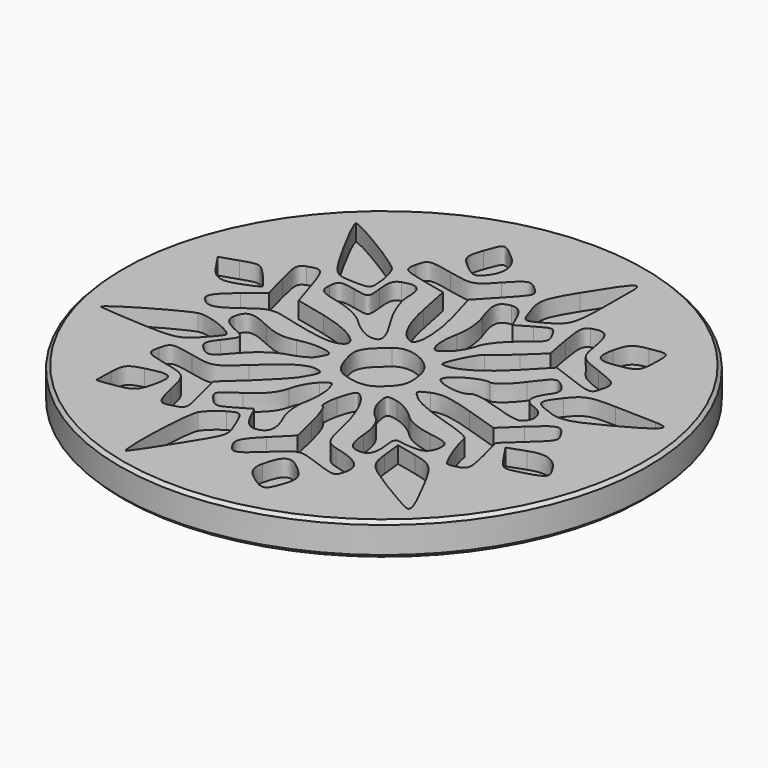
from build123d import *

# Parameters (mm, degrees)
POCKET_DEPTH = 1.25


with BuildPart() as part:
    # Sketch (on DatumPlane) → Revolution (revolve)
    with BuildSketch(Plane.YZ):
        Polygon((0, 0), (0, -2.5), (19.75, -2.5), (20, -2.25), (20, -0.25), (19.75, 0), align=None)
    revolve(axis=Axis((0, 0, 0), (0, 0, 1)))

    # Sketch005 → Pocket (cut)
    with BuildSketch(Plane.XY):
        with BuildLine():
            add(Edge.make_bspline(
                [(-13.005796, 2.866213), (-14.41352, 2.34128), (-14.858302, 2.479004), (-15.675618, 3.690302)],
                knots=[0, 0, 0, 0, 1, 1, 1, 1], degree=3))
            add(Edge.make_bspline(
                [(-15.675618, 3.690302), (-16.358596, 4.704044)],
                knots=[0, 0, 10.827876, 10.827876], degree=1))
            add(Edge.make_bspline(
                [(-16.358596, 4.704044), (-15.049084, 5.142053)],
                knots=[0, 0, 12.231697, 12.231697], degree=1))
            add(Edge.make_bspline(
                [(-15.049084, 5.142053), (-13.762151, 5.573289), (-13.723769, 5.562), (-12.812756, 4.541484)],
                knots=[0, 0, 0, 0, 1, 1, 1, 1], degree=3))
            add(Edge.make_bspline(
                [(-12.812756, 4.541484), (-12.302498, 3.970267), (-11.897227, 3.44872), (-11.911902, 3.383244)],
                knots=[0, 0, 0, 0, 1, 1, 1, 1], degree=3))
            add(Edge.make_bspline(
                [(-11.911902, 3.383244), (-11.927707, 3.317769), (-12.419902, 3.085218), (-13.005796, 2.866213)],
                knots=[0, 0, 0, 0, 1, 1, 1, 1], degree=3))
        make_face()
        with BuildLine():
            add(Edge.make_bspline(
                [(15.175787, -5.580133), (13.715004, -5.985404), (13.712747, -5.984276), (12.95752, -4.865547)],
                knots=[0, 0, 0, 0, 1, 1, 1, 1], degree=3))
            add(Edge.make_bspline(
                [(12.95752, -4.865547), (12.202293, -3.743431)],
                knots=[0, 0, 11.98164, 11.98164], degree=1))
            add(Edge.make_bspline(
                [(12.202293, -3.743431), (13.477938, -3.290747)],
                knots=[0, 0, 11.990417, 11.990417], degree=1))
            add(Edge.make_bspline(
                [(13.477938, -3.290747), (14.807769, -2.818871), (15.626213, -3.181244), (16.319351, -4.548329)],
                knots=[0, 0, 0, 0, 1, 1, 1, 1], degree=3))
            add(Edge.make_bspline(
                [(16.319351, -4.548329), (16.575609, -5.051813), (16.352089, -5.253884), (15.175787, -5.580133)],
                knots=[0, 0, 0, 0, 1, 1, 1, 1], degree=3))
        make_face()
        with BuildLine():
            add(Edge.make_bspline(
                [(15.299964, 2.323218), (13.236356, 1.224809), (12.518382, 1.034027), (11.610756, 1.342213)],
                knots=[0, 0, 0, 0, 1, 1, 1, 1], degree=3))
            add(Edge.make_bspline(
                [(11.610756, 1.342213), (9.979511, 1.895369), (9.924196, 2.054542), (10.928907, 3.3268)],
                knots=[0, 0, 0, 0, 1, 1, 1, 1], degree=3))
            add(Edge.make_bspline(
                [(10.928907, 3.3268), (11.731547, 4.343929), (12.092791, 4.469236), (14.032222, 4.406018)],
                knots=[0, 0, 0, 0, 1, 1, 1, 1], degree=3))
            add(Edge.make_bspline(
                [(14.032222, 4.406018), (15.239004, 4.365378), (16.626409, 4.328124), (17.115218, 4.321351)],
                knots=[0, 0, 0, 0, 1, 1, 1, 1], degree=3))
            add(Edge.make_bspline(
                [(17.115218, 4.321351), (18.521813, 4.303289), (18.053324, 3.787387), (15.299964, 2.323218)],
                knots=[0, 0, 0, 0, 1, 1, 1, 1], degree=3))
        make_face()
        with BuildLine():
            add(Edge.make_bspline(
                [(12.484516, -13.463164), (12.305022, -13.422524), (11.083564, -12.732773), (9.769538, -11.930133)],
                knots=[0, 0, 0, 0, 1, 1, 1, 1], degree=3))
            add(Edge.make_bspline(
                [(9.769538, -11.930133), (7.59304, -10.599173), (7.367262, -10.337271), (7.215991, -8.973573)],
                knots=[0, 0, 0, 0, 1, 1, 1, 1], degree=3))
            add(Edge.make_bspline(
                [(7.215991, -8.973573), (7.051173, -7.476667)],
                knots=[0, 0, 13.340135, 13.340135], degree=1))
            add(Edge.make_bspline(
                [(7.051173, -7.476667), (8.631618, -7.835653)],
                knots=[0, 0, 14.356615, 14.356615], degree=1))
            add(Edge.make_bspline(
                [(8.631618, -7.835653), (10.052889, -8.158516), (10.327209, -8.412516), (11.336436, -10.331627)],
                knots=[0, 0, 0, 0, 1, 1, 1, 1], degree=3))
            add(Edge.make_bspline(
                [(11.336436, -10.331627), (12.666267, -12.862596), (12.923653, -13.563636), (12.484516, -13.463164)],
                knots=[0, 0, 0, 0, 1, 1, 1, 1], degree=3))
        make_face()
        with BuildLine():
            add(Edge.make_bspline(
                [(12.649333, -2.471173), (11.391751, -3.631671)],
                knots=[0, 0, 15.15843, 15.15843], degree=1))
            add(Edge.make_bspline(
                [(11.391751, -3.631671), (11.843307, -5.411929)],
                knots=[0, 0, 16.269385, 16.269385], degree=1))
            add(Edge.make_bspline(
                [(11.843307, -5.411929), (12.207938, -6.851262), (12.184231, -7.22944), (11.716871, -7.395387)],
                knots=[0, 0, 0, 0, 1, 1, 1, 1], degree=3))
            add(Edge.make_bspline(
                [(11.716871, -7.395387), (11.399653, -7.508276), (11.010187, -7.573751), (10.851013, -7.541013)],
                knots=[0, 0, 0, 0, 1, 1, 1, 1], degree=3))
            add(Edge.make_bspline(
                [(10.851013, -7.541013), (10.587982, -7.486827), (9.674711, -5.178249), (9.590044, -4.353031)],
                knots=[0, 0, 0, 0, 1, 1, 1, 1], degree=3))
            add(Edge.make_bspline(
                [(9.590044, -4.353031), (9.570853, -4.165636), (8.525502, -3.719724), (7.269049, -3.360738)],
                knots=[0, 0, 0, 0, 1, 1, 1, 1], degree=3))
            add(Edge.make_bspline(
                [(7.269049, -3.360738), (6.011467, -3.00288), (4.647769, -2.419244), (4.236853, -2.062516)],
                knots=[0, 0, 0, 0, 1, 1, 1, 1], degree=3))
            add(Edge.make_bspline(
                [(4.236853, -2.062516), (3.506462, -1.429209), (3.50872, -1.406631), (4.34184, -1.030711)],
                knots=[0, 0, 0, 0, 1, 1, 1, 1], degree=3))
            add(Edge.make_bspline(
                [(4.34184, -1.030711), (4.98192, -0.742844), (5.803751, -0.843316), (7.637067, -1.433724)],
                knots=[0, 0, 0, 0, 1, 1, 1, 1], degree=3))
            add(Edge.make_bspline(
                [(7.637067, -1.433724), (10.081111, -2.219431)],
                knots=[0, 0, 22.741242, 22.741242], degree=1))
            add(Edge.make_bspline(
                [(10.081111, -2.219431), (11.418844, -0.941529)],
                knots=[0, 0, 16.38795, 16.38795], degree=1))
            add(Edge.make_bspline(
                [(11.418844, -0.941529), (12.854791, 0.432329), (13.155076, 0.509093), (13.696942, -0.35112)],
                knots=[0, 0, 0, 0, 1, 1, 1, 1], degree=3))
            add(Edge.make_bspline(
                [(13.696942, -0.35112), (14.149627, -1.069093), (14.132693, -1.10296), (12.649333, -2.471173)],
                knots=[0, 0, 0, 0, 1, 1, 1, 1], degree=3))
        make_face()
        with BuildLine():
            add(Edge.make_bspline(
                [(10.706516, -0.51368), (10.540569, -0.618667), (9.54376, -0.400791), (8.493893, -0.029387)],
                knots=[0, 0, 0, 0, 1, 1, 1, 1], degree=3))
            add(Edge.make_bspline(
                [(8.493893, -0.029387), (7.249858, 0.41088), (6.459636, 0.520382), (6.227084, 0.283316)],
                knots=[0, 0, 0, 0, 1, 1, 1, 1], degree=3))
            add(Edge.make_bspline(
                [(6.227084, 0.283316), (5.78456, -0.165982), (3.622738, 0.283316), (3.740142, 0.800347)],
                knots=[0, 0, 0, 0, 1, 1, 1, 1], degree=3))
            add(Edge.make_bspline(
                [(3.740142, 0.800347), (3.872222, 1.383982), (5.607324, 2.357084), (6.253049, 2.210329)],
                knots=[0, 0, 0, 0, 1, 1, 1, 1], degree=3))
            add(Edge.make_bspline(
                [(6.253049, 2.210329), (6.580427, 2.135822), (7.317591, 2.748809), (7.953156, 3.623698)],
                knots=[0, 0, 0, 0, 1, 1, 1, 1], degree=3))
            add(Edge.make_bspline(
                [(7.953156, 3.623698), (8.972542, 5.026907), (9.139618, 5.113831), (9.768409, 4.567449)],
                knots=[0, 0, 0, 0, 1, 1, 1, 1], degree=3))
            add(Edge.make_bspline(
                [(9.768409, 4.567449), (10.239156, 4.15992), (10.331724, 3.782871), (10.059662, 3.394533)],
                knots=[0, 0, 0, 0, 1, 1, 1, 1], degree=3))
            add(Edge.make_bspline(
                [(10.059662, 3.394533), (9.229929, 2.217102), (9.28976, 1.719262), (10.304631, 1.362533)],
                knots=[0, 0, 0, 0, 1, 1, 1, 1], degree=3))
            add(Edge.make_bspline(
                [(10.304631, 1.362533), (11.266444, 1.024996), (11.491093, -0.020356), (10.706516, -0.51368)],
                knots=[0, 0, 0, 0, 1, 1, 1, 1], degree=3))
        make_face()
        with BuildLine():
            add(Edge.make_bspline(
                [(8.457769, -7.151547), (8.089751, -7.204604), (7.467733, -7.175253), (7.076009, -7.086071)],
                knots=[0, 0, 0, 0, 1, 1, 1, 1], degree=3))
            add(Edge.make_bspline(
                [(7.076009, -7.086071), (6.464151, -6.947218), (6.384, -7.075911), (6.511564, -7.98128)],
                knots=[0, 0, 0, 0, 1, 1, 1, 1], degree=3))
            add(Edge.make_bspline(
                [(6.511564, -7.98128), (6.686542, -9.2208), (6.338844, -9.691547), (5.406382, -9.479316)],
                knots=[0, 0, 0, 0, 1, 1, 1, 1], degree=3))
            add(Edge.make_bspline(
                [(5.406382, -9.479316), (4.948053, -9.375458), (4.699698, -8.811013), (4.624062, -7.700187)],
                knots=[0, 0, 0, 0, 1, 1, 1, 1], degree=3))
            add(Edge.make_bspline(
                [(4.624062, -7.700187), (4.5552, -6.6808), (4.218791, -5.84768), (3.724338, -5.47176)],
                knots=[0, 0, 0, 0, 1, 1, 1, 1], degree=3))
            add(Edge.make_bspline(
                [(3.724338, -5.47176), (3.290844, -5.140996), (2.843804, -4.424151), (2.729787, -3.877769)],
                knots=[0, 0, 0, 0, 1, 1, 1, 1], degree=3))
            add(Edge.make_bspline(
                [(2.729787, -3.877769), (2.542391, -2.973529), (2.610124, -2.903538), (3.471467, -3.098836)],
                knots=[0, 0, 0, 0, 1, 1, 1, 1], degree=3))
            add(Edge.make_bspline(
                [(3.471467, -3.098836), (3.991884, -3.217369), (4.76856, -3.676827), (5.196409, -4.12048)],
                knots=[0, 0, 0, 0, 1, 1, 1, 1], degree=3))
            add(Edge.make_bspline(
                [(5.196409, -4.12048), (5.69312, -4.635253), (6.568009, -5.013431), (7.617876, -5.165831)],
                knots=[0, 0, 0, 0, 1, 1, 1, 1], degree=3))
            add(Edge.make_bspline(
                [(7.617876, -5.165831), (9.051564, -5.373547), (9.253636, -5.510142), (9.194933, -6.230373)],
                knots=[0, 0, 0, 0, 1, 1, 1, 1], degree=3))
            add(Edge.make_bspline(
                [(9.194933, -6.230373), (9.155422, -6.716924), (8.85288, -7.095102), (8.457769, -7.151547)],
                knots=[0, 0, 0, 0, 1, 1, 1, 1], degree=3))
        make_face()
        with BuildLine():
            add(Edge.make_bspline(
                [(9.981769, 5.48072), (8.183449, 6.147893)],
                knots=[0, 0, 16.990968, 16.990968], degree=1))
            add(Edge.make_bspline(
                [(8.183449, 6.147893), (6.464151, 4.376667)],
                knots=[0, 0, 21.866161, 21.866161], degree=1))
            add(Edge.make_bspline(
                [(6.464151, 4.376667), (5.016916, 2.886533), (3.501947, 2.042124), (2.630444, 2.240809)],
                knots=[0, 0, 0, 0, 1, 1, 1, 1], degree=3))
            add(Edge.make_bspline(
                [(2.630444, 2.240809), (2.356124, 2.302898), (3.443244, 4.582124), (3.82368, 4.742427)],
                knots=[0, 0, 0, 0, 1, 1, 1, 1], degree=3))
            add(Edge.make_bspline(
                [(3.82368, 4.742427), (3.993013, 4.812418), (4.71776, 5.425404), (5.436862, 6.102738)],
                knots=[0, 0, 0, 0, 1, 1, 1, 1], degree=3))
            add(Edge.make_bspline(
                [(5.436862, 6.102738), (6.742987, 7.335484)],
                knots=[0, 0, 15.909472, 15.909472], degree=1))
            add(Edge.make_bspline(
                [(6.742987, 7.335484), (6.396418, 9.2196)],
                knots=[0, 0, 16.970003, 16.970003], degree=1))
            add(Edge.make_bspline(
                [(6.396418, 9.2196), (6.122098, 10.714249), (6.164996, 11.144356), (6.605262, 11.300142)],
                knots=[0, 0, 0, 0, 1, 1, 1, 1], degree=3))
            add(Edge.make_bspline(
                [(6.605262, 11.300142), (7.639324, 11.66816), (7.98928, 11.324978), (8.236507, 9.700507)],
                knots=[0, 0, 0, 0, 1, 1, 1, 1], degree=3))
            add(Edge.make_bspline(
                [(8.236507, 9.700507), (8.467929, 8.176507), (8.595493, 8.036524), (10.345271, 7.387413)],
                knots=[0, 0, 0, 0, 1, 1, 1, 1], degree=3))
            add(Edge.make_bspline(
                [(10.345271, 7.387413), (12.0228, 6.765396), (12.187618, 6.602836), (11.994578, 5.75504)],
                knots=[0, 0, 0, 0, 1, 1, 1, 1], degree=3))
            add(Edge.make_bspline(
                [(11.994578, 5.75504), (11.787991, 4.845156), (11.720258, 4.836124), (9.981769, 5.48072)],
                knots=[0, 0, 0, 0, 1, 1, 1, 1], degree=3))
        make_face()
        with BuildLine():
            add(Edge.make_bspline(
                [(11.228062, 8.659671), (9.464738, 8.29504), (9.069627, 8.573876), (9.385716, 9.965796)],
                knots=[0, 0, 0, 0, 1, 1, 1, 1], degree=3))
            add(Edge.make_bspline(
                [(9.385716, 9.965796), (9.627298, 11.02808), (9.882427, 11.274178), (10.924391, 11.452542)],
                knots=[0, 0, 0, 0, 1, 1, 1, 1], degree=3))
            add(Edge.make_bspline(
                [(10.924391, 11.452542), (12.372756, 11.699769), (12.365982, 11.705413), (12.309538, 10.097876)],
                knots=[0, 0, 0, 0, 1, 1, 1, 1], degree=3))
            add(Edge.make_bspline(
                [(12.309538, 10.097876), (12.272284, 9.061556), (12.107467, 8.841422), (11.228062, 8.659671)],
                knots=[0, 0, 0, 0, 1, 1, 1, 1], degree=3))
        make_face()
        with BuildLine():
            add(Edge.make_bspline(
                [(4.76856, -12.273316), (2.981529, -11.610658), (2.971369, -11.611787), (1.597511, -12.925813)],
                knots=[0, 0, 0, 0, 1, 1, 1, 1], degree=3))
            add(Edge.make_bspline(
                [(1.597511, -12.925813), (0.090444, -14.365147), (-0.181618, -14.431751), (-0.665911, -13.47784)],
                knots=[0, 0, 0, 0, 1, 1, 1, 1], degree=3))
            add(Edge.make_bspline(
                [(-0.665911, -13.47784), (-0.922169, -12.973227), (-0.716711, -12.567956), (0.320738, -11.532764)],
                knots=[0, 0, 0, 0, 1, 1, 1, 1], degree=3))
            add(Edge.make_bspline(
                [(0.320738, -11.532764), (1.631378, -10.225511)],
                knots=[0, 0, 16.39782, 16.39782], degree=1))
            add(Edge.make_bspline(
                [(1.631378, -10.225511), (1.189982, -8.333493)],
                knots=[0, 0, 17.210046, 17.210046], degree=1))
            add(Edge.make_bspline(
                [(1.189982, -8.333493), (0.9484, -7.293787), (0.614249, -6.410996), (0.448302, -6.373742)],
                knots=[0, 0, 0, 0, 1, 1, 1, 1], degree=3))
            add(Edge.make_bspline(
                [(0.448302, -6.373742), (0.282356, -6.336489), (0.281227, -5.712213), (0.446044, -4.986338)],
                knots=[0, 0, 0, 0, 1, 1, 1, 1], degree=3))
            add(Edge.make_bspline(
                [(0.446044, -4.986338), (0.610862, -4.261591), (0.871636, -3.701662), (1.025164, -3.741173)],
                knots=[0, 0, 0, 0, 1, 1, 1, 1], degree=3))
            add(Edge.make_bspline(
                [(1.025164, -3.741173), (1.719431, -3.920667), (2.590933, -5.645609), (2.998462, -7.646)],
                knots=[0, 0, 0, 0, 1, 1, 1, 1], degree=3))
            add(Edge.make_bspline(
                [(2.998462, -7.646), (3.367609, -9.453351), (3.609191, -9.864267), (4.41296, -10.051662)],
                knots=[0, 0, 0, 0, 1, 1, 1, 1], degree=3))
            add(Edge.make_bspline(
                [(4.41296, -10.051662), (6.293689, -10.489671), (6.985698, -11.06992), (6.768951, -12.027218)],
                knots=[0, 0, 0, 0, 1, 1, 1, 1], degree=3))
            add(Edge.make_bspline(
                [(6.768951, -12.027218), (6.570267, -12.899849), (6.486729, -12.910009), (4.76856, -12.273316)],
                knots=[0, 0, 0, 0, 1, 1, 1, 1], degree=3))
        make_face()
        with BuildLine():
            add(Edge.make_bspline(
                [(4.845324, -15.59112), (4.409573, -16.906276), (4.191698, -16.950302), (2.91944, -15.980587)],
                knots=[0, 0, 0, 0, 1, 1, 1, 1], degree=3))
            add(Edge.make_bspline(
                [(2.91944, -15.980587), (2.316613, -15.522258), (2.12696, -15.033449), (2.286133, -14.3516)],
                knots=[0, 0, 0, 0, 1, 1, 1, 1], degree=3))
            add(Edge.make_bspline(
                [(2.286133, -14.3516), (2.66544, -12.724871), (3.139573, -12.5228), (4.252658, -13.512836)],
                knots=[0, 0, 0, 0, 1, 1, 1, 1], degree=3))
            add(Edge.make_bspline(
                [(4.252658, -13.512836), (5.08352, -14.253387), (5.178347, -14.584151), (4.845324, -15.59112)],
                knots=[0, 0, 0, 0, 1, 1, 1, 1], degree=3))
        make_face()
        with BuildLine():
            add(Edge.make_bspline(
                [(4.409573, 7.396444), (3.644187, 6.816196), (2.918311, 5.900667), (2.796391, 5.363316)],
                knots=[0, 0, 0, 0, 1, 1, 1, 1], degree=3))
            add(Edge.make_bspline(
                [(2.796391, 5.363316), (2.673342, 4.824836), (2.247751, 4.113636), (1.850382, 3.780613)],
                knots=[0, 0, 0, 0, 1, 1, 1, 1], degree=3))
            add(Edge.make_bspline(
                [(1.850382, 3.780613), (1.223849, 3.257938), (1.092898, 3.263582), (0.876151, 3.826898)],
                knots=[0, 0, 0, 0, 1, 1, 1, 1], degree=3))
            add(Edge.make_bspline(
                [(0.876151, 3.826898), (0.739556, 4.184756), (0.757618, 5.072062), (0.91792, 5.797938)],
                knots=[0, 0, 0, 0, 1, 1, 1, 1], degree=3))
            add(Edge.make_bspline(
                [(0.91792, 5.797938), (1.078222, 6.523813), (0.987911, 7.703502), (0.716978, 8.418089)],
                knots=[0, 0, 0, 0, 1, 1, 1, 1], degree=3))
            add(Edge.make_bspline(
                [(0.716978, 8.418089), (0.113022, 10.014338), (0.207849, 10.55056), (1.115476, 10.680382)],
                knots=[0, 0, 0, 0, 1, 1, 1, 1], degree=3))
            add(Edge.make_bspline(
                [(1.115476, 10.680382), (1.579449, 10.748116), (1.967787, 10.442187), (2.2692, 9.772756)],
                knots=[0, 0, 0, 0, 1, 1, 1, 1], degree=3))
            add(Edge.make_bspline(
                [(2.2692, 9.772756), (2.723013, 8.764658)],
                knots=[0, 0, 9.793125, 9.793125], degree=1))
            add(Edge.make_bspline(
                [(2.723013, 8.764658), (3.819164, 9.408124)],
                knots=[0, 0, 11.259401, 11.259401], degree=1))
            add(Edge.make_bspline(
                [(3.819164, 9.408124), (4.861129, 10.019982), (4.936764, 10.013209), (5.35784, 9.251209)],
                knots=[0, 0, 0, 0, 1, 1, 1, 1], degree=3))
            add(Edge.make_bspline(
                [(5.35784, 9.251209), (5.766498, 8.515173), (5.690862, 8.368418), (4.409573, 7.396444)],
                knots=[0, 0, 0, 0, 1, 1, 1, 1], degree=3))
        make_face()
        with BuildLine():
            add(Edge.make_bspline(
                [(1.607671, -2.181049), (1.056773, -2.683404), (0.444916, -2.808711), (-0.45368, -2.604382)],
                knots=[0, 0, 0, 0, 1, 1, 1, 1], degree=3))
            add(Edge.make_bspline(
                [(-0.45368, -2.604382), (-1.485484, -2.369573), (-1.819636, -2.052356), (-2.186524, -0.955076)],
                knots=[0, 0, 0, 0, 1, 1, 1, 1], degree=3))
            add(Edge.make_bspline(
                [(-2.186524, -0.955076), (-2.649369, 0.426684), (-2.518418, 0.761964), (-1.02264, 2.03648)],
                knots=[0, 0, 0, 0, 1, 1, 1, 1], degree=3))
            add(Edge.make_bspline(
                [(-1.02264, 2.03648), (-0.021316, 2.88992), (2.120187, 1.922462), (2.419342, 0.480871)],
                knots=[0, 0, 0, 0, 1, 1, 1, 1], degree=3))
            add(Edge.make_bspline(
                [(2.419342, 0.480871), (2.699307, -0.871538), (2.566098, -1.309547), (1.607671, -2.181049)],
                knots=[0, 0, 0, 0, 1, 1, 1, 1], degree=3))
        make_face()
        with BuildLine():
            add(Edge.make_bspline(
                [(4.074293, 10.210764), (3.085387, 9.630516), (2.869769, 9.623742), (2.664311, 10.16448)],
                knots=[0, 0, 0, 0, 1, 1, 1, 1], degree=3))
            add(Edge.make_bspline(
                [(2.664311, 10.16448), (1.919244, 12.119716), (1.948596, 12.331947), (3.266009, 14.494898)],
                knots=[0, 0, 0, 0, 1, 1, 1, 1], degree=3))
            add(Edge.make_bspline(
                [(3.266009, 14.494898), (5.045138, 17.417591), (5.515884, 17.860116), (5.518142, 16.614951)],
                knots=[0, 0, 0, 0, 1, 1, 1, 1], degree=3))
            add(Edge.make_bspline(
                [(5.518142, 16.614951), (5.528302, 11.084524), (5.523787, 11.061947), (4.074293, 10.210764)],
                knots=[0, 0, 0, 0, 1, 1, 1, 1], degree=3))
        make_face()
        with BuildLine():
            add(Edge.make_bspline(
                [(-0.810409, -11.117333), (-1.245031, -11.180551), (-1.669493, -10.845271), (-1.995742, -10.183742)],
                knots=[0, 0, 0, 0, 1, 1, 1, 1], degree=3))
            add(Edge.make_bspline(
                [(-1.995742, -10.183742), (-2.503742, -9.151938)],
                knots=[0, 0, 10.187718, 10.187718], degree=1))
            add(Edge.make_bspline(
                [(-2.503742, -9.151938), (-3.546836, -9.763796)],
                knots=[0, 0, 10.712329, 10.712329], degree=1))
            add(Edge.make_bspline(
                [(-3.546836, -9.763796), (-4.474782, -10.309049), (-4.657662, -10.298889), (-5.197271, -9.673484)],
                knots=[0, 0, 0, 0, 1, 1, 1, 1], degree=3))
            add(Edge.make_bspline(
                [(-5.197271, -9.673484), (-5.786551, -8.991636), (-5.758329, -8.938578), (-4.293031, -7.979022)],
                knots=[0, 0, 0, 0, 1, 1, 1, 1], degree=3))
            add(Edge.make_bspline(
                [(-4.293031, -7.979022), (-3.269129, -7.308462), (-2.697911, -6.623227), (-2.524062, -5.854453)],
                knots=[0, 0, 0, 0, 1, 1, 1, 1], degree=3))
            add(Edge.make_bspline(
                [(-2.524062, -5.854453), (-2.381822, -5.231307), (-1.961876, -4.45576), (-1.590471, -4.132898)],
                knots=[0, 0, 0, 0, 1, 1, 1, 1], degree=3))
            add(Edge.make_bspline(
                [(-1.590471, -4.132898), (-0.936844, -3.563938), (-0.907493, -3.572969), (-0.670427, -4.437698)],
                knots=[0, 0, 0, 0, 1, 1, 1, 1], degree=3))
            add(Edge.make_bspline(
                [(-0.670427, -4.437698), (-0.53496, -4.928764), (-0.548507, -5.893964), (-0.699778, -6.581458)],
                knots=[0, 0, 0, 0, 1, 1, 1, 1], degree=3))
            add(Edge.make_bspline(
                [(-0.699778, -6.581458), (-0.851049, -7.27008), (-0.739289, -8.331236), (-0.452551, -8.941964)],
                knots=[0, 0, 0, 0, 1, 1, 1, 1], degree=3))
            add(Edge.make_bspline(
                [(-0.452551, -8.941964), (0.190916, -10.305662), (0.078027, -10.989769), (-0.810409, -11.117333)],
                knots=[0, 0, 0, 0, 1, 1, 1, 1], degree=3))
        make_face()
        with BuildLine():
            add(Edge.make_bspline(
                [(-3.367342, -15.568542), (-4.191431, -16.884827), (-4.948916, -18.014844), (-5.051644, -18.079191)],
                knots=[0, 0, 0, 0, 1, 1, 1, 1], degree=3))
            add(Edge.make_bspline(
                [(-5.051644, -18.079191), (-5.414018, -18.307227), (-5.204044, -12.20784), (-4.828124, -11.565502)],
                knots=[0, 0, 0, 0, 1, 1, 1, 1], degree=3))
            add(Edge.make_bspline(
                [(-4.828124, -11.565502), (-4.617022, -11.206516), (-4.062738, -10.697387), (-3.596507, -10.435484)],
                knots=[0, 0, 0, 0, 1, 1, 1, 1], degree=3))
            add(Edge.make_bspline(
                [(-3.596507, -10.435484), (-2.793867, -9.983929), (-2.721618, -10.025698), (-2.209102, -11.255058)],
                knots=[0, 0, 0, 0, 1, 1, 1, 1], degree=3))
            add(Edge.make_bspline(
                [(-2.209102, -11.255058), (-1.56112, -12.806151), (-1.503547, -12.592791), (-3.367342, -15.568542)],
                knots=[0, 0, 0, 0, 1, 1, 1, 1], degree=3))
        make_face()
        with BuildLine():
            add(Edge.make_bspline(
                [(-0.650107, 3.382116), (-1.478711, 3.569511), (-2.179751, 4.865476), (-2.608729, 6.997947)],
                knots=[0, 0, 0, 0, 1, 1, 1, 1], degree=3))
            add(Edge.make_bspline(
                [(-2.608729, 6.997947), (-3.109956, 9.484889)],
                knots=[0, 0, 22.472973, 22.472973], degree=1))
            add(Edge.make_bspline(
                [(-3.109956, 9.484889), (-4.941013, 9.901449)],
                knots=[0, 0, 16.634437, 16.634437], degree=1))
            add(Edge.make_bspline(
                [(-4.941013, 9.901449), (-6.644507, 10.287529), (-6.758524, 10.383484), (-6.55984, 11.258373)],
                knots=[0, 0, 0, 0, 1, 1, 1, 1], degree=3))
            add(Edge.make_bspline(
                [(-6.55984, 11.258373), (-6.358898, 12.143422), (-6.225689, 12.172773), (-4.367538, 11.753956)],
                knots=[0, 0, 0, 0, 1, 1, 1, 1], degree=3))
            add(Edge.make_bspline(
                [(-4.367538, 11.753956), (-2.4552, 11.32272), (-2.349084, 11.350942), (-1.1852, 12.620942)],
                knots=[0, 0, 0, 0, 1, 1, 1, 1], degree=3))
            add(Edge.make_bspline(
                [(-1.1852, 12.620942), (-0.142107, 13.757733), (0.107378, 13.859333), (0.668436, 13.371653)],
                knots=[0, 0, 0, 0, 1, 1, 1, 1], degree=3))
            add(Edge.make_bspline(
                [(0.668436, 13.371653), (1.482364, 12.666098), (1.488009, 12.683031), (-0.056311, 11.037111)],
                knots=[0, 0, 0, 0, 1, 1, 1, 1], degree=3))
            add(Edge.make_bspline(
                [(-0.056311, 11.037111), (-1.338729, 9.670027)],
                knots=[0, 0, 16.604268, 16.604268], degree=1))
            add(Edge.make_bspline(
                [(-1.338729, 9.670027), (-0.68736, 7.382898)],
                knots=[0, 0, 21.065624, 21.065624], degree=1))
            add(Edge.make_bspline(
                [(-0.68736, 7.382898), (-0.104853, 5.332836), (-0.085662, 3.253422), (-0.650107, 3.382116)],
                knots=[0, 0, 0, 0, 1, 1, 1, 1], degree=3))
        make_face()
        with BuildLine():
            add(Edge.make_bspline(
                [(-2.887564, -4.23224), (-3.116729, -4.617191), (-4.042418, -5.606098), (-4.9444, -6.430187)],
                knots=[0, 0, 0, 0, 1, 1, 1, 1], degree=3))
            add(Edge.make_bspline(
                [(-4.9444, -6.430187), (-6.584676, -7.927093)],
                knots=[0, 0, 19.671007, 19.671007], degree=1))
            add(Edge.make_bspline(
                [(-6.584676, -7.927093), (-6.160213, -9.601236)],
                knots=[0, 0, 15.299232, 15.299232], degree=1))
            add(Edge.make_bspline(
                [(-6.160213, -9.601236), (-5.639796, -11.64904), (-5.629636, -11.602756), (-6.664827, -11.887236)],
                knots=[0, 0, 0, 0, 1, 1, 1, 1], degree=3))
            add(Edge.make_bspline(
                [(-6.664827, -11.887236), (-7.412151, -12.092693), (-7.558907, -11.901911), (-7.950631, -10.223253)],
                knots=[0, 0, 0, 0, 1, 1, 1, 1], degree=3))
            add(Edge.make_bspline(
                [(-7.950631, -10.223253), (-8.382996, -8.365102), (-8.428151, -8.318818), (-10.200507, -7.916933)],
                knots=[0, 0, 0, 0, 1, 1, 1, 1], degree=3))
            add(Edge.make_bspline(
                [(-10.200507, -7.916933), (-11.878036, -7.535369), (-11.993182, -7.438284), (-11.794498, -6.564524)],
                knots=[0, 0, 0, 0, 1, 1, 1, 1], degree=3))
            add(Edge.make_bspline(
                [(-11.794498, -6.564524), (-11.595813, -5.686249), (-11.453573, -5.651253), (-9.715084, -6.046364)],
                knots=[0, 0, 0, 0, 1, 1, 1, 1], degree=3))
            add(Edge.make_bspline(
                [(-9.715084, -6.046364), (-7.909991, -6.456151), (-7.79936, -6.421156), (-6.243751, -4.9536)],
                knots=[0, 0, 0, 0, 1, 1, 1, 1], degree=3))
            add(Edge.make_bspline(
                [(-6.243751, -4.9536), (-4.470267, -3.278329), (-3.506196, -2.702596), (-2.761129, -2.871929)],
                knots=[0, 0, 0, 0, 1, 1, 1, 1], degree=3))
            add(Edge.make_bspline(
                [(-2.761129, -2.871929), (-2.230551, -2.99272), (-2.245227, -3.153022), (-2.887564, -4.23224)],
                knots=[0, 0, 0, 0, 1, 1, 1, 1], degree=3))
        make_face()
        with BuildLine():
            add(Edge.make_bspline(
                [(-3.052382, 2.342409), (-3.474587, 2.438364), (-4.206107, 2.917013), (-4.679111, 3.405822)],
                knots=[0, 0, 0, 0, 1, 1, 1, 1], degree=3))
            add(Edge.make_bspline(
                [(-4.679111, 3.405822), (-5.17808, 3.920596), (-6.256169, 4.456818), (-7.247333, 4.681467)],
                knots=[0, 0, 0, 0, 1, 1, 1, 1], degree=3))
            add(Edge.make_bspline(
                [(-7.247333, 4.681467), (-8.731822, 5.019004), (-8.945182, 5.183822), (-8.883093, 5.943564)],
                knots=[0, 0, 0, 0, 1, 1, 1, 1], degree=3))
            add(Edge.make_bspline(
                [(-8.883093, 5.943564), (-8.819876, 6.708951), (-8.644898, 6.7812), (-7.485529, 6.518169)],
                knots=[0, 0, 0, 0, 1, 1, 1, 1], degree=3))
            add(Edge.make_bspline(
                [(-7.485529, 6.518169), (-6.166987, 6.219013), (-6.161342, 6.223529), (-6.303582, 7.479982)],
                knots=[0, 0, 0, 0, 1, 1, 1, 1], degree=3))
            add(Edge.make_bspline(
                [(-6.303582, 7.479982), (-6.415342, 8.47792), (-6.319387, 8.788364), (-5.84864, 8.95544)],
                knots=[0, 0, 0, 0, 1, 1, 1, 1], degree=3))
            add(Edge.make_bspline(
                [(-5.84864, 8.95544), (-4.775067, 9.337004), (-4.367538, 8.998338), (-4.376569, 7.732853)],
                knots=[0, 0, 0, 0, 1, 1, 1, 1], degree=3))
            add(Edge.make_bspline(
                [(-4.376569, 7.732853), (-4.381084, 7.047618), (-3.873084, 5.691822), (-3.246551, 4.719849)],
                knots=[0, 0, 0, 0, 1, 1, 1, 1], degree=3))
            add(Edge.make_bspline(
                [(-3.246551, 4.719849), (-1.973164, 2.742036), (-1.918978, 2.085022), (-3.052382, 2.342409)],
                knots=[0, 0, 0, 0, 1, 1, 1, 1], degree=3))
        make_face()
        with BuildLine():
            add(Edge.make_bspline(
                [(-3.835831, -1.745298), (-4.001778, -1.984622), (-4.687013, -2.323289), (-5.357573, -2.497138)],
                knots=[0, 0, 0, 0, 1, 1, 1, 1], degree=3))
            add(Edge.make_bspline(
                [(-5.357573, -2.497138), (-6.029262, -2.670987), (-7.075742, -3.410409), (-7.683084, -4.139671)],
                knots=[0, 0, 0, 0, 1, 1, 1, 1], degree=3))
            add(Edge.make_bspline(
                [(-7.683084, -4.139671), (-8.850356, -5.538364), (-9.055813, -5.608356), (-9.80088, -4.861031)],
                knots=[0, 0, 0, 0, 1, 1, 1, 1], degree=3))
            add(Edge.make_bspline(
                [(-9.80088, -4.861031), (-10.180187, -4.479467), (-10.141804, -4.229982), (-9.593164, -3.508622)],
                knots=[0, 0, 0, 0, 1, 1, 1, 1], degree=3))
            add(Edge.make_bspline(
                [(-9.593164, -3.508622), (-8.709244, -2.349253), (-8.695698, -2.419244), (-9.929573, -1.838996)],
                knots=[0, 0, 0, 0, 1, 1, 1, 1], degree=3))
            add(Edge.make_bspline(
                [(-9.929573, -1.838996), (-10.653191, -1.498071), (-10.951218, -1.105218), (-10.843973, -0.633342)],
                knots=[0, 0, 0, 0, 1, 1, 1, 1], degree=3))
            add(Edge.make_bspline(
                [(-10.843973, -0.633342), (-10.620453, 0.34992), (-10.19712, 0.402978), (-8.609902, -0.354507)],
                knots=[0, 0, 0, 0, 1, 1, 1, 1], degree=3))
            add(Edge.make_bspline(
                [(-8.609902, -0.354507), (-7.598418, -0.836542), (-6.912053, -0.932498), (-6.058613, -0.711236)],
                knots=[0, 0, 0, 0, 1, 1, 1, 1], degree=3))
            add(Edge.make_bspline(
                [(-6.058613, -0.711236), (-4.814578, -0.388373), (-3.284933, -0.576898), (-3.44072, -1.035227)],
                knots=[0, 0, 0, 0, 1, 1, 1, 1], degree=3))
            add(Edge.make_bspline(
                [(-3.44072, -1.035227), (-3.492649, -1.186498), (-3.671013, -1.505973), (-3.835831, -1.745298)],
                knots=[0, 0, 0, 0, 1, 1, 1, 1], degree=3))
        make_face()
        with BuildLine():
            add(Edge.make_bspline(
                [(-4.368667, 0.412009), (-4.869893, 0.36008), (-6.271973, 0.596018), (-7.483271, 0.935813)],
                knots=[0, 0, 0, 0, 1, 1, 1, 1], degree=3))
            add(Edge.make_bspline(
                [(-7.483271, 0.935813), (-9.616871, 1.534124), (-9.732018, 1.51832), (-11.16232, 0.434587)],
                knots=[0, 0, 0, 0, 1, 1, 1, 1], degree=3))
            add(Edge.make_bspline(
                [(-11.16232, 0.434587), (-12.223476, -0.369182), (-12.805982, -0.570124), (-13.239476, -0.278871)],
                knots=[0, 0, 0, 0, 1, 1, 1, 1], degree=3))
            add(Edge.make_bspline(
                [(-13.239476, -0.278871), (-14.052276, 0.266382), (-13.901004, 0.659236), (-12.390551, 1.921333)],
                knots=[0, 0, 0, 0, 1, 1, 1, 1], degree=3))
            add(Edge.make_bspline(
                [(-12.390551, 1.921333), (-11.104747, 2.994907)],
                knots=[0, 0, 14.838201, 14.838201], degree=1))
            add(Edge.make_bspline(
                [(-11.104747, 2.994907), (-11.615004, 4.899342)],
                knots=[0, 0, 17.465031, 17.465031], degree=1))
            add(Edge.make_bspline(
                [(-11.615004, 4.899342), (-12.057529, 6.546391), (-12.039467, 6.833129), (-11.479538, 7.034071)],
                knots=[0, 0, 0, 0, 1, 1, 1, 1], degree=3))
            add(Edge.make_bspline(
                [(-11.479538, 7.034071), (-10.475956, 7.394187), (-10.376613, 7.292587), (-9.728631, 5.244782)],
                knots=[0, 0, 0, 0, 1, 1, 1, 1], degree=3))
            add(Edge.make_bspline(
                [(-9.728631, 5.244782), (-9.12016, 3.324542)],
                knots=[0, 0, 17.843548, 17.843548], degree=1))
            add(Edge.make_bspline(
                [(-9.12016, 3.324542), (-6.784489, 2.781547)],
                knots=[0, 0, 21.241756, 21.241756], degree=1))
            add(Edge.make_bspline(
                [(-6.784489, 2.781547), (-3.804222, 2.088409), (-2.311831, 0.626498), (-4.368667, 0.412009)],
                knots=[0, 0, 0, 0, 1, 1, 1, 1], degree=3))
        make_face()
        with BuildLine():
            add(Edge.make_bspline(
                [(-2.641467, 12.608524), (-3.002711, 12.249538), (-3.244293, 12.316142), (-4.054836, 13.000249)],
                knots=[0, 0, 0, 0, 1, 1, 1, 1], degree=3))
            add(Edge.make_bspline(
                [(-4.054836, 13.000249), (-4.912791, 13.722738), (-4.976009, 13.98464), (-4.569609, 15.133849)],
                knots=[0, 0, 0, 0, 1, 1, 1, 1], degree=3))
            add(Edge.make_bspline(
                [(-4.569609, 15.133849), (-4.036773, 16.642044), (-4.085316, 16.630756), (-2.794996, 15.542507)],
                knots=[0, 0, 0, 0, 1, 1, 1, 1], degree=3))
            add(Edge.make_bspline(
                [(-2.794996, 15.542507), (-1.799316, 14.702613), (-1.736098, 13.509378), (-2.641467, 12.608524)],
                knots=[0, 0, 0, 0, 1, 1, 1, 1], degree=3))
        make_face()
        with BuildLine():
            add(Edge.make_bspline(
                [(-10.737858, -11.939164), (-11.475022, -12.068987), (-12.090267, -12.143493), (-12.104942, -12.103982)],
                knots=[0, 0, 0, 0, 1, 1, 1, 1], degree=3))
            add(Edge.make_bspline(
                [(-12.104942, -12.103982), (-12.118489, -12.0656), (-12.110587, -11.460516), (-12.085751, -10.760604)],
                knots=[0, 0, 0, 0, 1, 1, 1, 1], degree=3))
            add(Edge.make_bspline(
                [(-12.085751, -10.760604), (-12.04624, -9.639618), (-11.89384, -9.449964), (-10.810107, -9.168871)],
                knots=[0, 0, 0, 0, 1, 1, 1, 1], degree=3))
            add(Edge.make_bspline(
                [(-10.810107, -9.168871), (-9.011787, -8.701511), (-8.755529, -8.881004), (-9.093067, -10.365493)],
                knots=[0, 0, 0, 0, 1, 1, 1, 1], degree=3))
            add(Edge.make_bspline(
                [(-9.093067, -10.365493), (-9.354969, -11.51696), (-9.583004, -11.734836), (-10.737858, -11.939164)],
                knots=[0, 0, 0, 0, 1, 1, 1, 1], degree=3))
        make_face()
        with BuildLine():
            add(Edge.make_bspline(
                [(-8.178667, 7.222596), (-9.559298, 7.275653), (-9.6688, 7.381769), (-11.222151, 10.170124)],
                knots=[0, 0, 0, 0, 1, 1, 1, 1], degree=3))
            add(Edge.make_bspline(
                [(-11.222151, 10.170124), (-12.1072, 11.761858), (-12.755182, 13.112009), (-12.660356, 13.17184)],
                knots=[0, 0, 0, 0, 1, 1, 1, 1], degree=3))
            add(Edge.make_bspline(
                [(-12.660356, 13.17184), (-12.426676, 13.318596), (-7.82984, 10.543787), (-7.374898, 9.9816)],
                knots=[0, 0, 0, 0, 1, 1, 1, 1], degree=3))
            add(Edge.make_bspline(
                [(-7.374898, 9.9816), (-7.176213, 9.735502), (-6.952693, 9.000596), (-6.879316, 8.350356)],
                knots=[0, 0, 0, 0, 1, 1, 1, 1], degree=3))
            add(Edge.make_bspline(
                [(-6.879316, 8.350356), (-6.750622, 7.209049), (-6.794649, 7.170667), (-8.178667, 7.222596)],
                knots=[0, 0, 0, 0, 1, 1, 1, 1], degree=3))
        make_face()
        with BuildLine():
            add(Edge.make_bspline(
                [(-10.763822, -4.033556), (-11.5992, -4.893769), (-12.059787, -4.995369), (-14.523022, -4.863289)],
                knots=[0, 0, 0, 0, 1, 1, 1, 1], degree=3))
            add(Edge.make_bspline(
                [(-14.523022, -4.863289), (-16.067342, -4.78088), (-17.514578, -4.671378), (-17.740356, -4.619449)],
                knots=[0, 0, 0, 0, 1, 1, 1, 1], degree=3))
            add(Edge.make_bspline(
                [(-17.740356, -4.619449), (-18.145627, -4.528009), (-13.960836, -2.028649), (-12.769858, -1.650471)],
                knots=[0, 0, 0, 0, 1, 1, 1, 1], degree=3))
            add(Edge.make_bspline(
                [(-12.769858, -1.650471), (-12.09704, -1.43824), (-9.650738, -2.359413), (-9.75008, -2.788391)],
                knots=[0, 0, 0, 0, 1, 1, 1, 1], degree=3))
            add(Edge.make_bspline(
                [(-9.75008, -2.788391), (-9.783947, -2.934018), (-10.241147, -3.495076), (-10.763822, -4.033556)],
                knots=[0, 0, 0, 0, 1, 1, 1, 1], degree=3))
        make_face()
    extrude(amount=-POCKET_DEPTH, mode=Mode.SUBTRACT)


solid = part.part
